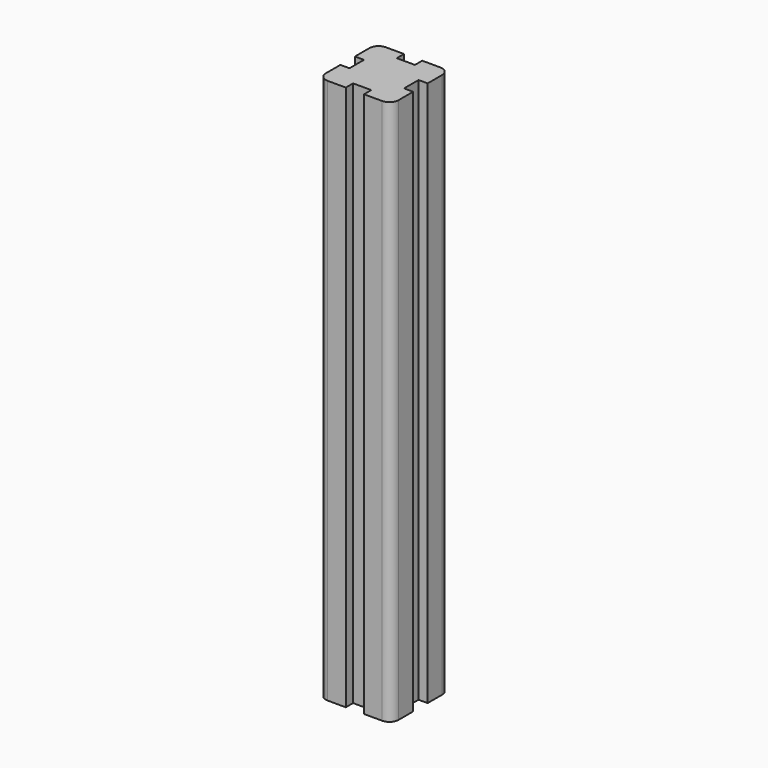
from build123d import *

# Parameters (mm, degrees)
F1_DEPTH = 150
F2_R     = 5


with BuildPart() as f1:
    # F0 (on Top) → F1 (new body, symmetric)
    with BuildSketch(Plane.XY):
        Polygon((20, 5), (20, 20), (5, 20), (5, 15), (-5, 15), (-5, 20), (-20, 20), (-20, 5), (-15, 5), (-15, -5), (-20, -5), (-20, -20), (-5, -20), (-5, -15), (5, -15), (5, -20), (20, -20), (20, -5), (15, -5), (15, 5), align=None)
    extrude(amount=F1_DEPTH, both=True)

    # F2
    f2_edges = [f1.edges().sort_by_distance(p)[0] for p in [
        (20, 20, 0),
        (-20, 20, 0),
        (-20, -20, 0),
        (20, -20, 0),
    ]]
    fillet(f2_edges, radius=F2_R)


solid = f1.part
